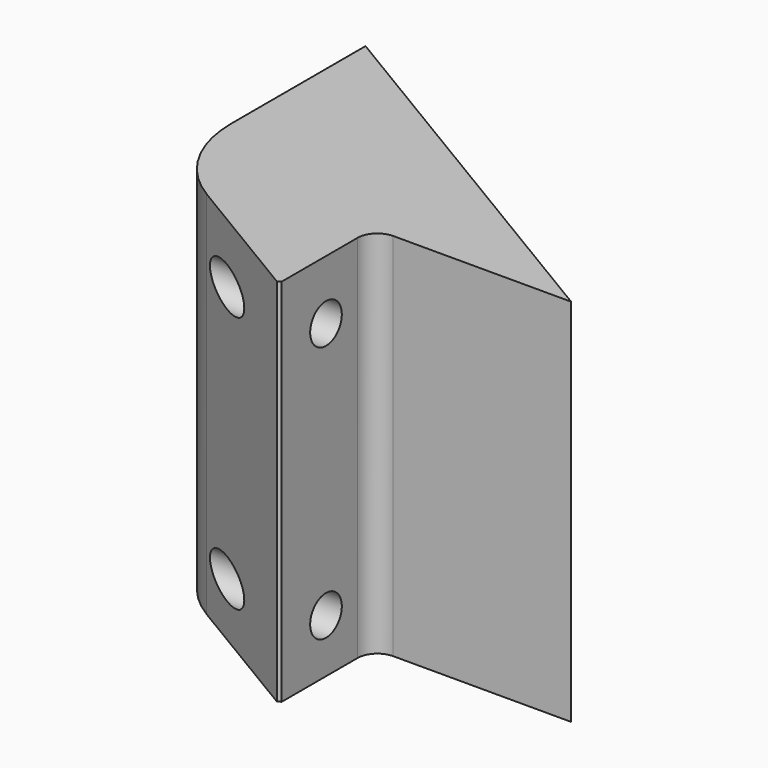
from build123d import *

# Parameters (mm, degrees)
F1_DEPTH = 93.548797
F3_D     = 10
F4_R     = 31
F5_SIZE  = 1
F6_R     = 5


with BuildPart() as f1:
    # F0 (on Top) → F1 (new body)
    with BuildSketch(Plane.XY):
        Polygon((50, -10), (-50, 50), (-50, -10), (0, -40), (0, -10), align=None)
    extrude(amount=F1_DEPTH)

    # F3 (through all)
    with Locations(Plane.YZ):
        with Locations((-25, 78.548797), (-25, 13.548797)):
            Hole(F3_D / 2)

    # F4
    f4_edges = [f1.edges().sort_by_distance(p)[0] for p in [
        (-50, -10, 46.774399),
    ]]
    fillet(f4_edges, radius=F4_R)

    # F5
    f5_edges = [f1.edges().sort_by_distance(p)[0] for p in [
        (0, -40, 46.774399),
    ]]
    chamfer(f5_edges, length=F5_SIZE)

    # F6
    f6_edges = [f1.edges().sort_by_distance(p)[0] for p in [
        (0, -10, 46.774399),
    ]]
    fillet(f6_edges, radius=F6_R)


solid = f1.part
